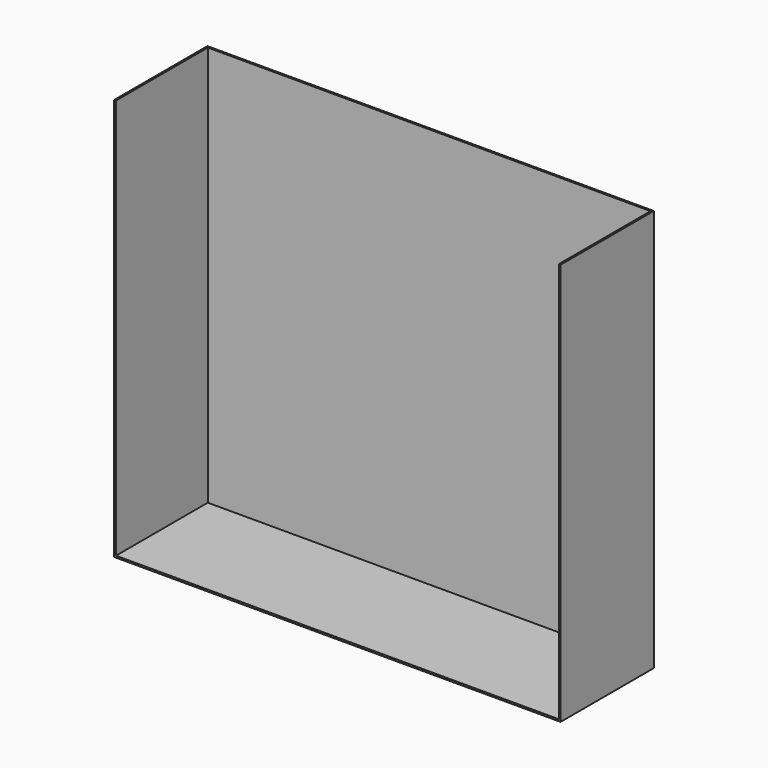
from build123d import *

# Parameters (mm, degrees)
F0_W     = 498
F0_H     = 130
F1_DEPTH = 449
F2_T     = -2


with BuildPart() as f1:
    # F0 (on Top) → F1 (new body)
    with BuildSketch(Plane.XY):
        with Locations((249, 65)):
            Rectangle(F0_W, F0_H)
    extrude(amount=-F1_DEPTH)

    # F2
    f2_openings = [f1.faces().sort_by_distance(p)[0] for p in [
        (249, 0, -224.5),
        (249, 65, 0),
    ]]
    offset(amount=F2_T, openings=f2_openings)


solid = f1.part
